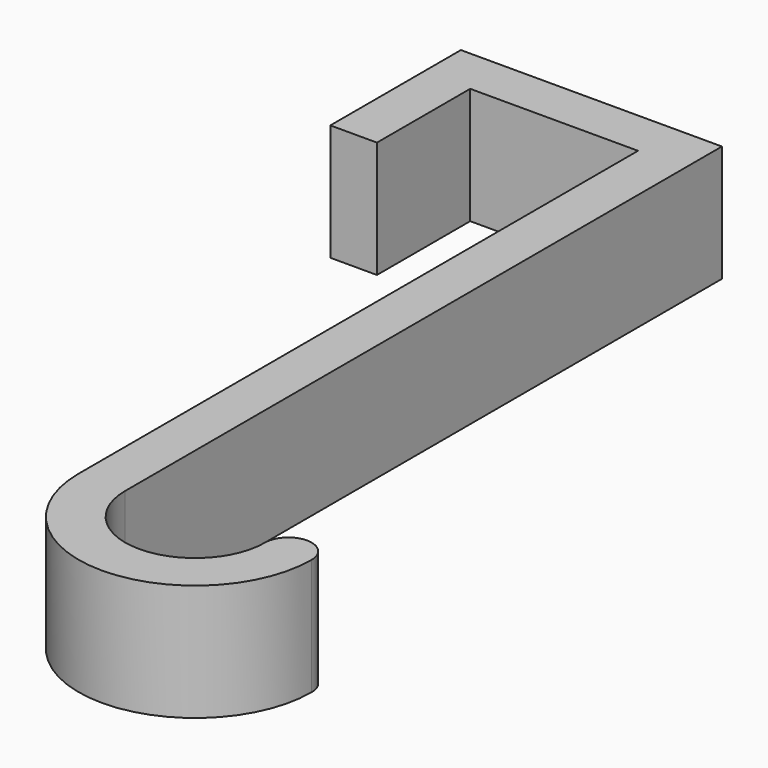
from build123d import *

# Parameters (mm, degrees)
F1_DEPTH = 10


with BuildPart() as f1:
    # F0 (on Top) → F1 (new body)
    with BuildSketch(Plane.XY):
        with BuildLine():
            Line((-4, 0), (0, 0))
            Line((0, 0), (0, 10))
            Line((0, 10), (14.4, 10))
            Line((14.4, 10), (14.4, -50))
            ThreePointArc((14.4, -50), (24.4, -60), (34.4, -50))
            ThreePointArc((34.4, -50), (32.4, -48), (30.4, -50))
            ThreePointArc((30.4, -50), (24.4, -56), (18.4, -50))
            Line((18.4, -50), (18.4, 14))
            Line((18.4, 14), (-4, 14))
            Line((-4, 14), (-4, 0))
        make_face()
    extrude(amount=F1_DEPTH)


solid = f1.part
